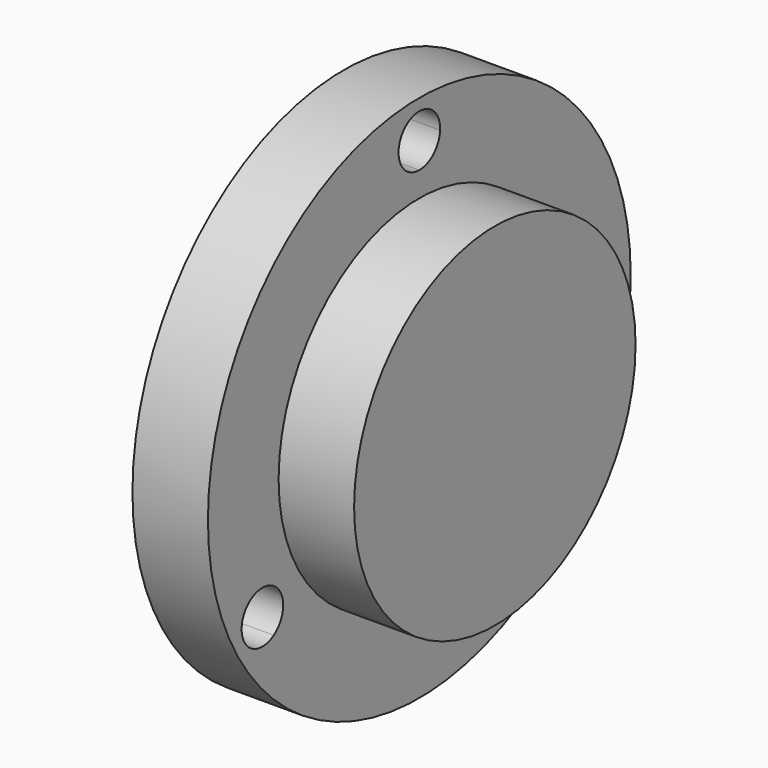
from build123d import *

# Parameters (mm, degrees)
F0_R     = 22.225
F1_DEPTH = 6.35
F2_R     = 14.7955
F3_DEPTH = 6.35
F5_DEPTH = 25.4


with BuildPart() as f1:
    # F0 (on Right) → F1 (new body)
    with BuildSketch(Plane.YZ):
        Circle(F0_R)
    extrude(amount=F1_DEPTH)

    # F2 (on face) → F3 (join)
    with BuildSketch(Plane.YZ.offset(6.35)):
        Circle(F2_R)
    extrude(amount=F3_DEPTH)

    # F4 (on face) → F5 (cut)
    with BuildSketch(Plane(origin=(0, 0, 0), x_dir=(0, -1, 0), z_dir=(-1, 0, 0))):
        with BuildLine():
            ThreePointArc((-17.4797272753, -7.57374639), (-16.4977839421, -9.525), (-15.2989204133, -11.3510146766))
            ThreePointArc((-15.2989204133, -11.3510146766), (-14.5754935306, -10.5624984018), (-14.3133839421, -9.525))
            ThreePointArc((-14.3133839421, -9.525), (-15.3517808132, -7.6653548219), (-17.4797272753, -7.57374639))
        make_face()
        with BuildLine():
            ThreePointArc((-17.4797272753, -7.57374639), (-18.3895298341, -10.6172), (-15.2989204133, -11.3510146766))
            ThreePointArc((-15.2989204133, -11.3510146766), (-16.4977839421, -9.525), (-17.4797272753, -7.57374639))
        make_face()
        with BuildLine():
            ThreePointArc((15.2989204133, -11.3510146766), (16.4977839421, -9.525), (17.4797272753, -7.57374639))
            ThreePointArc((17.4797272753, -7.57374639), (14.6060380501, -8.4328), (15.2989204133, -11.3510146766))
        make_face()
        with BuildLine():
            ThreePointArc((18.6821839421, -9.525), (18.3574291202, -8.3789968711), (17.4797272753, -7.57374639))
            ThreePointArc((17.4797272753, -7.57374639), (16.4977839421, -9.525), (15.2989204133, -11.3510146766))
            ThreePointArc((15.2989204133, -11.3510146766), (17.5352823439, -11.4472904115), (18.6821839421, -9.525))
        make_face()
        with BuildLine():
            ThreePointArc((0, 19.05), (1.0922, 19.0186644946), (2.1808068621, 18.9247610667))
            ThreePointArc((2.1808068621, 18.9247610667), (2.1835015307, 18.9873547666), (2.1844, 19.05))
            ThreePointArc((2.1844, 19.05), (-0.0626452334, 21.2335015307), (-2.1808068621, 18.9247610667))
            ThreePointArc((-2.1808068621, 18.9247610667), (-1.0922, 19.0186644946), (0, 19.05))
        make_face()
        with BuildLine():
            ThreePointArc((0, 16.8656), (1.4996718698, 17.4617343915), (2.1808068621, 18.9247610667))
            ThreePointArc((2.1808068621, 18.9247610667), (1.0922, 19.0186644946), (0, 19.05))
            Line((0, 19.05), (0, 16.8656))
        make_face()
        with BuildLine():
            Line((0, 16.8656), (0, 19.05))
            ThreePointArc((0, 19.05), (-1.0922, 19.0186644946), (-2.1808068621, 18.9247610667))
            ThreePointArc((-2.1808068621, 18.9247610667), (-1.4996718698, 17.4617343915), (0, 16.8656))
        make_face()
    extrude(amount=-F5_DEPTH, mode=Mode.SUBTRACT)


solid = f1.part
